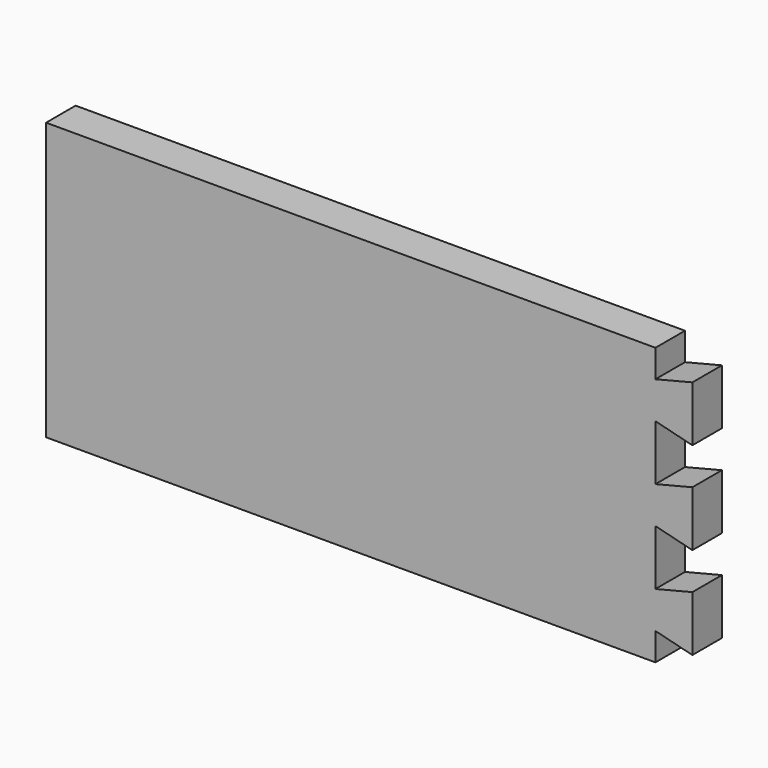
from build123d import *

# Parameters (mm, degrees)
F0_W     = 350
F0_H     = 150
F1_DEPTH = 20
F3_DEPTH = 20
F5_DEPTH = 20


with BuildPart() as f1:
    # F0 (on Front) → F1 (new body)
    with BuildSketch(Plane.XZ):
        with Locations((-12.016859, 7.696675)):
            Rectangle(F0_W, F0_H)
    extrude(amount=F1_DEPTH)

    # F2 (on face) → F3 (join)
    with BuildSketch(Plane.YZ.offset(162.983141)):
        Polygon((-20, 82.696675), (-20, 72.696675), (0, 67.696675), (0, 82.696675), align=None)
        Polygon((-20, 42.696675), (-20, 22.696675), (0, 17.696675), (0, 47.696675), align=None)
        Polygon((0, -2.303325), (-20, -7.303325), (-20, -27.303325), (0, -32.303325), align=None)
        Polygon((0, -52.303325), (-20, -57.303325), (-20, -67.303325), (0, -67.303325), align=None)
    extrude(amount=-F3_DEPTH)

    # F4 (on face) → F5 (cut)
    with BuildSketch(Plane.XZ.offset(20)):
        Polygon((162.983141, 82.696675), (142.983141, 82.696675), (142.983141, 67.696675), (162.983141, 72.696675), align=None)
        Polygon((162.983141, 42.696675), (142.983141, 47.696675), (142.983141, 17.696675), (162.983141, 22.696675), align=None)
        Polygon((162.983141, -7.303325), (142.983141, -2.303325), (142.983141, -32.303325), (162.983141, -27.303325), align=None)
        Polygon((162.983141, -57.303325), (142.983141, -52.303325), (142.983141, -67.303325), (162.983141, -67.303325), align=None)
    extrude(amount=-F5_DEPTH, mode=Mode.SUBTRACT)


solid = f1.part
